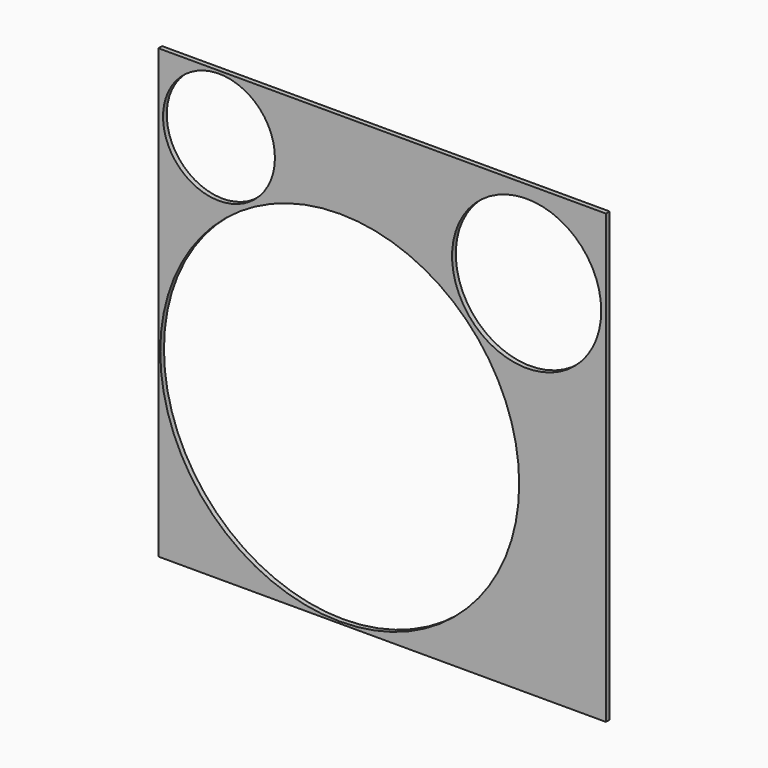
from build123d import *

# Parameters (mm, degrees)
F0_W     = 304.8
F0_H     = 304.8
F0_R     = 122.2375
F0_R_2   = 38.1
F0_R_3   = 50.8
F1_DEPTH = 3.175


with BuildPart() as f1:
    # F0 (on Front) → F1 (new body)
    with BuildSketch(Plane.XZ):
        with Locations((28.8925, 28.8925)):
            Rectangle(F0_W, F0_H)
        Circle(F0_R, mode=Mode.SUBTRACT)
        with Locations((-82.2325, 141.329946)):
            Circle(F0_R_2, mode=Mode.SUBTRACT)
        with Locations((127.3175, 121.824051)):
            Circle(F0_R_3, mode=Mode.SUBTRACT)
    extrude(amount=F1_DEPTH)


solid = f1.part
